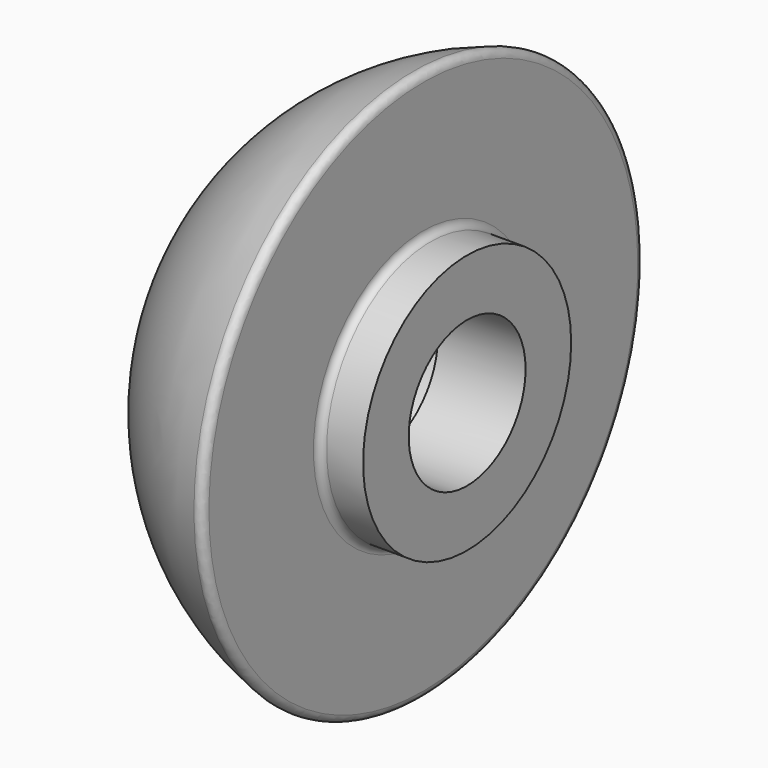
from build123d import *

# Parameters (mm, degrees)
F2_R = 0.25


with BuildPart() as f1:
    # F0 (on Top) → F1 (revolve)
    with BuildSketch(Plane.XY):
        with BuildLine():
            Line((8.841219, 4.45), (7.341219, 4.45))
            Line((7.341219, 4.45), (7.341219, 9.5))
            ThreePointArc((7.341219, 9.5), (3.640313, 7.630531), (1.041219, 4.4))
            Line((1.041219, 4.4), (5.841219, 4.4))
            Line((5.841219, 4.4), (5.841219, 2.5))
            Line((5.841219, 2.5), (8.841219, 2.5))
            Line((8.841219, 2.5), (8.841219, 4.45))
        make_face()
    revolve(axis=Axis((20.770491, 0, 0), (1, 0, 0)))

    # F2
    f2_edges = [f1.edges().sort_by_distance(p)[0] for p in [
        (7.341219, -9.5, 0),
        (7.341219, -4.45, 0),
        (1.041219, -4.4, 0),
    ]]
    fillet(f2_edges, radius=F2_R)


solid = f1.part
